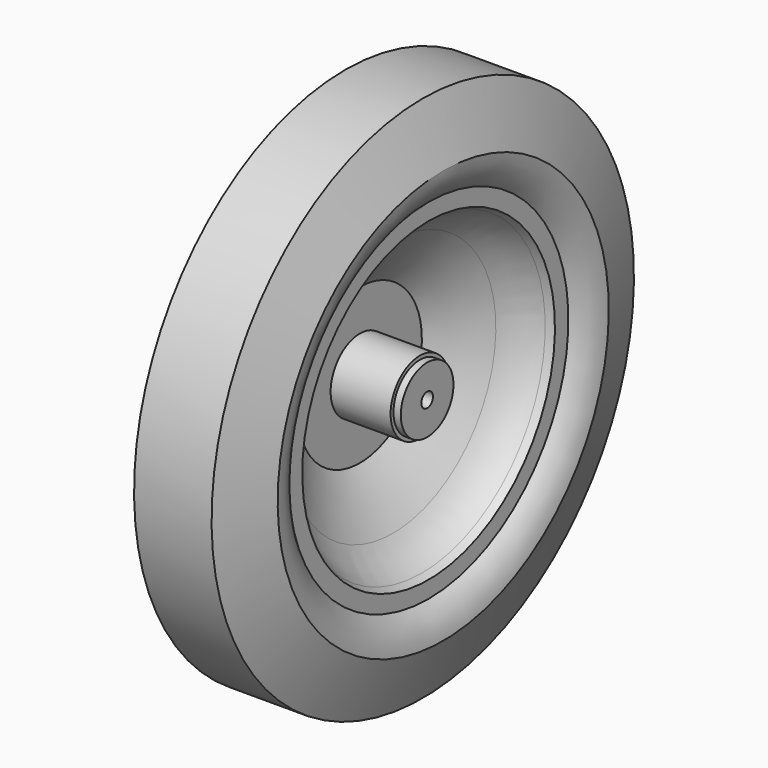
from build123d import *


with BuildPart() as f1:
    # F0 (on Front) → F1 (revolve)
    with BuildSketch(Plane.XZ):
        with BuildLine():
            Line((-2.65, 18.05), (-4.05, 14.15))
            add(Edge.make_bspline(
                [(-4.05, 14.15), (-4.05, 10.8), (0, 10.8), (4.05, 10.8), (4.05, 14.15)],
                knots=[0, 0, 0, 1.5707963268, 1.5707963268, 3.1415926536, 3.1415926536, 3.1415926536], degree=2, weights=[1, 0.7071067812, 1, 0.7071067812, 1]))
            Line((4.05, 14.15), (2.65, 18.05))
            Line((2.65, 18.05), (-2.65, 18.05))
        make_face()
    revolve(axis=Axis((0, 0, 0), (-1, 0, 0)))


with BuildPart() as f3:
    # F2 (on Front) → F3 (revolve)
    with BuildSketch(Plane.XZ):
        with BuildLine():
            Line((-1.75, 10.8), (-3.05, 11.9459626078))
            Line((-3.05, 11.9459626078), (-3.05, 10.3154300727))
            ThreePointArc((-3.05, 10.3154300727), (-2.941785485, 10.0541771229), (-2.6805325351, 9.9459626078))
            Line((-2.6805325351, 9.9459626078), (0.05, 9.9459626078))
            ThreePointArc((0.05, 9.9459626078), (-2.9848034025, 5.3789444177), (-4.05, 0))
            Line((-4.05, 0), (-2.05, 0))
            Line((-2.05, 0), (-2.05, 0.5))
            Line((-2.05, 0.5), (2.95, 0.5))
            Line((2.95, 0.5), (2.95, 2.25))
            Line((2.95, 2.25), (2.45, 2.25))
            Line((2.45, 2.25), (2.45, 2.5))
            Line((2.45, 2.5), (-1.65, 2.5))
            Line((-1.65, 2.5), (-1.65, 5.3))
            Line((-1.65, 5.3), (0.6082914533, 8.8003517526))
            ThreePointArc((0.6082914533, 8.8003517526), (1.4726743962, 9.8131246602), (2.5737067169, 10.5618533584))
            Line((2.5737067169, 10.5618533584), (3.05, 10.8))
            Line((3.05, 10.8), (3.05, 11.9459626078))
            Line((3.05, 11.9459626078), (1.75, 10.8))
            Line((1.75, 10.8), (-1.75, 10.8))
        make_face()
    revolve(axis=Axis((-3.05, 0, 0), (1, 0, 0)))


solid = Compound([f1.part, f3.part])
